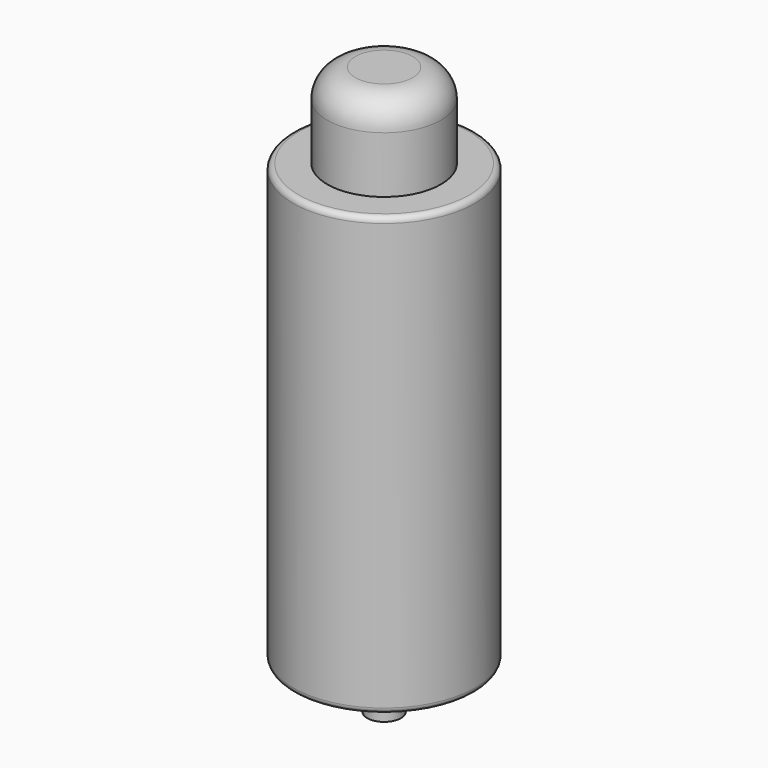
from build123d import *

# Parameters (mm, degrees)
F0_R     = 32.25
F1_DEPTH = 155
F2_R     = 20.142482
F3_DEPTH = 30
F4_R     = 10
F5_R     = 6
F6_DEPTH = 16
F7_R     = 2


with BuildPart() as f1:
    # F0 (on Top) → F1 (new body)
    with BuildSketch(Plane.XY):
        Circle(F0_R)
    extrude(amount=F1_DEPTH)

    # F2 (on face) → F3 (join)
    with BuildSketch(Plane.XY.offset(155)):
        Circle(F2_R)
    extrude(amount=F3_DEPTH)

    # F4
    f4_edges = [f1.edges().sort_by_distance(p)[0] for p in [
        (-20.142482, 0, 185),
    ]]
    fillet(f4_edges, radius=F4_R)

    # F5 (on face) → F6 (join)
    with BuildSketch(Plane(origin=(0, 0, 0), x_dir=(1, 0, 0), z_dir=(0, 0, -1))):
        Circle(F5_R)
    extrude(amount=F6_DEPTH)

    # F7
    f7_edges = [f1.edges().sort_by_distance(p)[0] for p in [
        (-32.25, 0, 155),
        (-32.25, 0, 0),
    ]]
    fillet(f7_edges, radius=F7_R)


solid = f1.part
